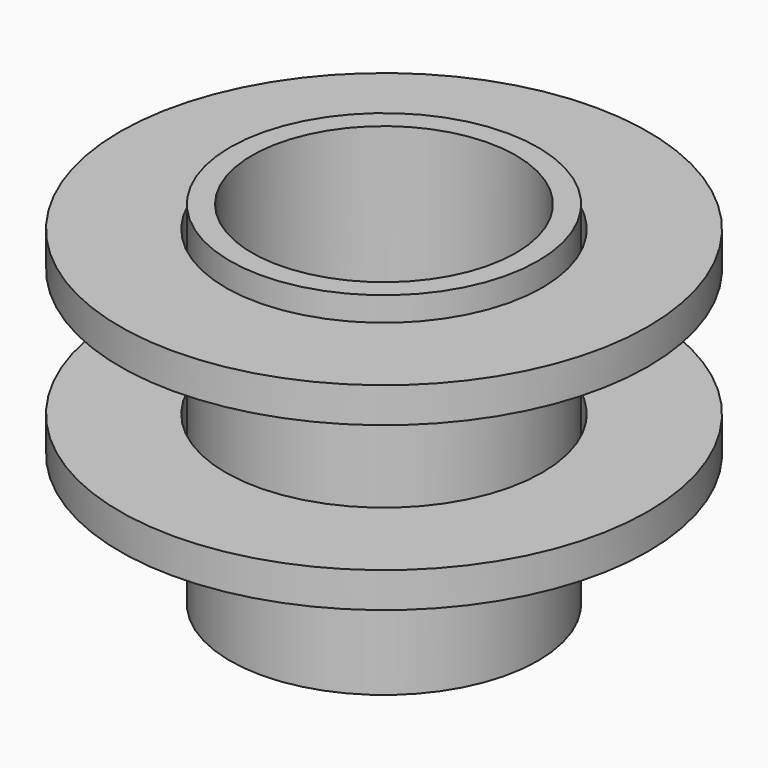
from build123d import *

# Parameters (mm, degrees)
F0_R     = 44.45
F0_R_2   = 38.1
F1_DEPTH = 50.8
F3_R     = 76.2
F3_R_2   = 45.72
F4_DEPTH = 10.16
F6_R     = 76.2
F6_R_2   = 45.72
F7_DEPTH = 10.16
F9_START = -38.1
F9_DEPTH = 25.4


with BuildPart() as f1:
    # F0 (on Top) → F1 (new body, symmetric)
    with BuildSketch(Plane.XY):
        Circle(F0_R)
        Circle(F0_R_2, mode=Mode.SUBTRACT)
    extrude(amount=F1_DEPTH, both=True)


with BuildPart() as f4:
    # F3 (on offset) → F4 (new body)
    with BuildSketch(Plane.XY.offset(44.45)):
        Circle(F3_R)
        Circle(F3_R_2, mode=Mode.SUBTRACT)
    extrude(amount=-F4_DEPTH)


with BuildPart() as f7:
    # F6 (on offset) → F7 (new body)
    with BuildSketch(Plane(origin=(0, 0, -2.54), x_dir=(1, 0, 0), z_dir=(0, 0, -1))):
        Circle(F6_R)
        Circle(F6_R_2, mode=Mode.SUBTRACT)
    extrude(amount=F7_DEPTH)


with BuildPart() as f9:
    # F8 (on Right) → F9 (new body)
    with BuildSketch(Plane.YZ.offset(F9_START)):
        Polygon((-6.8924075136, -50.8), (6.8924075136, -50.8), (13.7848150272, -38.862), (6.8924075136, -26.924), (-6.8924075136, -26.924), (-13.7848150272, -38.862), align=None)
    extrude(amount=-F9_DEPTH)


solid = Compound([f1.part, f4.part, f7.part, f9.part])
